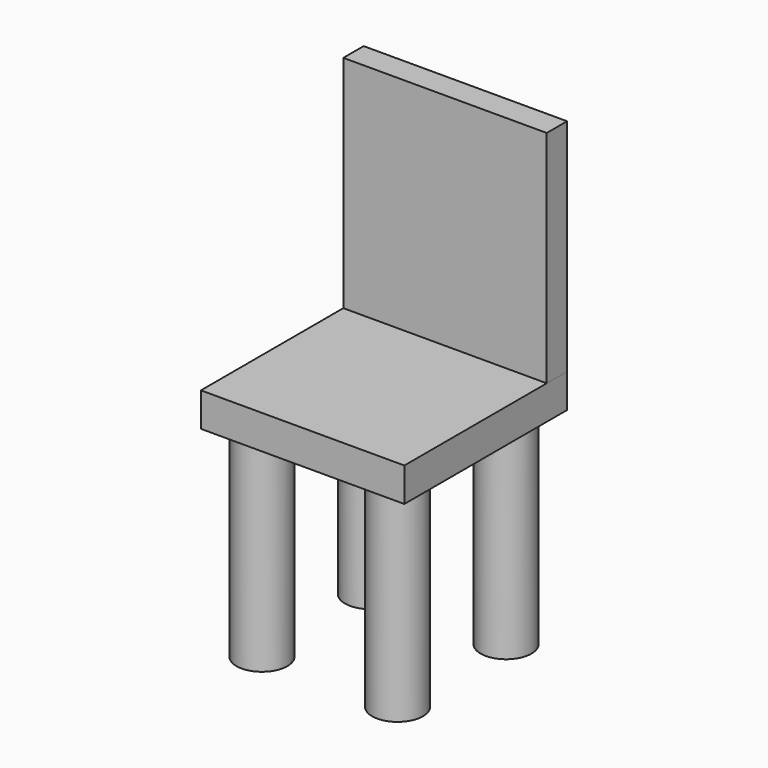
from build123d import *

# Parameters (mm, degrees)
F0_W     = 304.8
F0_H     = 304.8
F1_DEPTH = 50.8
F2_R     = 38.1
F3_DEPTH = 304.8
F6_W     = 304.8
F6_H     = 330.2
F7_DEPTH = 38.1


with BuildPart() as f1:
    # F0 (on Top) → F1 (new body)
    with BuildSketch(Plane.XY):
        Rectangle(F0_W, F0_H)
    extrude(amount=F1_DEPTH)

    # F4: F3 across plane


with BuildPart() as f3:
    # F2 (on face) → F3 (new body)
    with BuildSketch(Plane(origin=(0, 0, 0), x_dir=(1, 0, 0), z_dir=(0, 0, -1))):
        with Locations((-101.6, 101.6)):
            Circle(F2_R)
    extrude(amount=F3_DEPTH)


with BuildPart() as f1_1:
    add(f1.part)
    add(f3.part.mirror(Plane.XZ))


    add(f3.part)  # F5 merges F3
    # F5: F1 across plane


with BuildPart() as f1_2:
    add(f1_1.part)
    add(f1_1.part.mirror(Plane.YZ))


with BuildPart() as f7:
    # F6 (on face) → F7 (new body)
    with BuildSketch(Plane(origin=(0, 152.4, 0), x_dir=(-1, 0, 0), z_dir=(0, 1, 0))):
        with Locations((0, 215.9)):
            Rectangle(F6_W, F6_H)
    extrude(amount=-F7_DEPTH)


solid = Compound([f1_2.part, f7.part])
